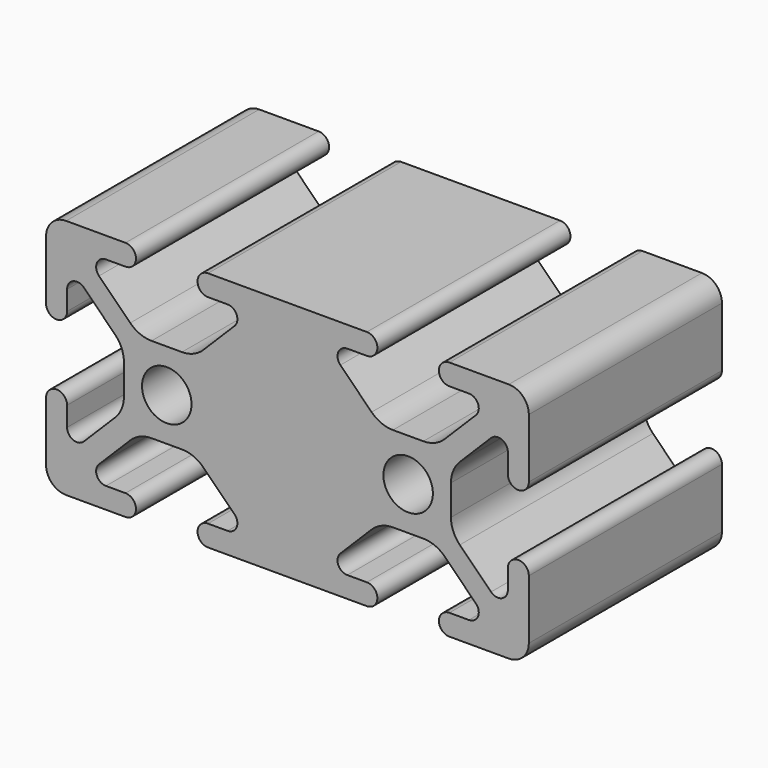
from build123d import *

# Parameters (mm, degrees)
F0_R     = 2.6035
F1_DEPTH = 25.4


with BuildPart() as f1:
    # F0 (on Front) → F1 (new body)
    with BuildSketch(Plane.XZ):
        with BuildLine():
            Line((-17.0434, 12.828983), (-23.2918, 12.828983))
            ThreePointArc((-23.2918, 12.828983), (-24.782523, 12.211505), (-25.4, 10.720783))
            Line((-25.4, 10.720783), (-25.4, 4.472383))
            ThreePointArc((-25.4, 4.472383), (-24.2951, 3.367483), (-23.1902, 4.472383))
            Line((-23.1902, 4.472383), (-23.1902, 6.528513))
            ThreePointArc((-23.1902, 6.528513), (-22.55203, 7.483601), (-21.425427, 7.259505))
            Line((-21.425427, 7.259505), (-18.138436, 3.972514))
            ThreePointArc((-18.138436, 3.972514), (-17.450182, 2.94247), (-17.2085, 1.72745))
            Line((-17.2085, 1.72745), (-17.2085, -1.469485))
            ThreePointArc((-17.2085, -1.469485), (-17.450182, -2.684505), (-18.138436, -3.714549))
            Line((-18.138436, -3.714549), (-21.425427, -7.00154))
            ThreePointArc((-21.425427, -7.00154), (-22.55203, -7.225636), (-23.1902, -6.270547))
            Line((-23.1902, -6.270547), (-23.1902, -4.214417))
            ThreePointArc((-23.1902, -4.214417), (-24.2951, -3.109517), (-25.4, -4.214417))
            Line((-25.4, -4.214417), (-25.4, -10.462817))
            ThreePointArc((-25.4, -10.462817), (-24.782523, -11.95354), (-23.2918, -12.571017))
            Line((-23.2918, -12.571017), (-17.0434, -12.571017))
            ThreePointArc((-17.0434, -12.571017), (-15.9385, -11.466117), (-17.0434, -10.361217))
            Line((-17.0434, -10.361217), (-19.09953, -10.361217))
            ThreePointArc((-19.09953, -10.361217), (-20.054618, -9.723048), (-19.830523, -8.596445))
            Line((-19.830523, -8.596445), (-16.543532, -5.309453))
            ThreePointArc((-16.543532, -5.309453), (-15.513488, -4.6212), (-14.298468, -4.379517))
            Line((-14.298468, -4.379517), (-11.101532, -4.379517))
            ThreePointArc((-11.101532, -4.379517), (-9.886512, -4.6212), (-8.856468, -5.309453))
            Line((-8.856468, -5.309453), (-5.569477, -8.596445))
            ThreePointArc((-5.569477, -8.596445), (-5.345382, -9.723048), (-6.30047, -10.361217))
            Line((-6.30047, -10.361217), (-8.3566, -10.361217))
            ThreePointArc((-8.3566, -10.361217), (-9.4615, -11.466117), (-8.3566, -12.571017))
            Line((-8.3566, -12.571017), (2.1082, -12.571017))
            Line((2.1082, -12.571017), (8.3566, -12.571017))
            ThreePointArc((8.3566, -12.571017), (9.4615, -11.466117), (8.3566, -10.361217))
            Line((8.3566, -10.361217), (6.30047, -10.361217))
            ThreePointArc((6.30047, -10.361217), (5.345382, -9.723048), (5.569477, -8.596445))
            Line((5.569477, -8.596445), (8.856468, -5.309453))
            ThreePointArc((8.856468, -5.309453), (9.886512, -4.6212), (11.101532, -4.379517))
            Line((11.101532, -4.379517), (14.298468, -4.379517))
            ThreePointArc((14.298468, -4.379517), (15.513488, -4.6212), (16.543532, -5.309453))
            Line((16.543532, -5.309453), (19.830523, -8.596445))
            ThreePointArc((19.830523, -8.596445), (20.054618, -9.723048), (19.09953, -10.361217))
            Line((19.09953, -10.361217), (17.0434, -10.361217))
            ThreePointArc((17.0434, -10.361217), (15.9385, -11.466117), (17.0434, -12.571017))
            Line((17.0434, -12.571017), (23.2918, -12.571017))
            ThreePointArc((23.2918, -12.571017), (24.782523, -11.95354), (25.4, -10.462817))
            Line((25.4, -10.462817), (25.4, -4.214417))
            ThreePointArc((25.4, -4.214417), (24.2951, -3.109517), (23.1902, -4.214417))
            Line((23.1902, -4.214417), (23.1902, -6.270547))
            ThreePointArc((23.1902, -6.270547), (22.55203, -7.225636), (21.425427, -7.00154))
            Line((21.425427, -7.00154), (18.138436, -3.714549))
            ThreePointArc((18.138436, -3.714549), (17.450182, -2.684505), (17.2085, -1.469485))
            Line((17.2085, -1.469485), (17.2085, 1.72745))
            ThreePointArc((17.2085, 1.72745), (17.450182, 2.94247), (18.138436, 3.972514))
            Line((18.138436, 3.972514), (21.425427, 7.259505))
            ThreePointArc((21.425427, 7.259505), (22.55203, 7.483601), (23.1902, 6.528513))
            Line((23.1902, 6.528513), (23.1902, 4.472383))
            ThreePointArc((23.1902, 4.472383), (24.2951, 3.367483), (25.4, 4.472383))
            Line((25.4, 4.472383), (25.4, 10.720783))
            ThreePointArc((25.4, 10.720783), (24.782523, 12.211505), (23.2918, 12.828983))
            Line((23.2918, 12.828983), (17.0434, 12.828983))
            ThreePointArc((17.0434, 12.828983), (15.9385, 11.724083), (17.0434, 10.619183))
            Line((17.0434, 10.619183), (19.09953, 10.619183))
            ThreePointArc((19.09953, 10.619183), (20.054618, 9.981013), (19.830523, 8.85441))
            Line((19.830523, 8.85441), (16.543532, 5.567419))
            ThreePointArc((16.543532, 5.567419), (15.513488, 4.879165), (14.298468, 4.637483))
            Line((14.298468, 4.637483), (11.101532, 4.637483))
            ThreePointArc((11.101532, 4.637483), (9.886512, 4.879165), (8.856468, 5.567419))
            Line((8.856468, 5.567419), (5.569477, 8.85441))
            ThreePointArc((5.569477, 8.85441), (5.345382, 9.981013), (6.30047, 10.619183))
            Line((6.30047, 10.619183), (8.3566, 10.619183))
            ThreePointArc((8.3566, 10.619183), (9.4615, 11.724083), (8.3566, 12.828983))
            Line((8.3566, 12.828983), (2.1082, 12.828983))
            Line((2.1082, 12.828983), (-8.3566, 12.828983))
            ThreePointArc((-8.3566, 12.828983), (-9.4615, 11.724083), (-8.3566, 10.619183))
            Line((-8.3566, 10.619183), (-6.30047, 10.619183))
            ThreePointArc((-6.30047, 10.619183), (-5.345382, 9.981013), (-5.569477, 8.85441))
            Line((-5.569477, 8.85441), (-8.856468, 5.567419))
            ThreePointArc((-8.856468, 5.567419), (-9.886512, 4.879165), (-11.101532, 4.637483))
            Line((-11.101532, 4.637483), (-14.298468, 4.637483))
            ThreePointArc((-14.298468, 4.637483), (-15.513488, 4.879165), (-16.543532, 5.567419))
            Line((-16.543532, 5.567419), (-19.830523, 8.85441))
            ThreePointArc((-19.830523, 8.85441), (-20.054618, 9.981013), (-19.09953, 10.619183))
            Line((-19.09953, 10.619183), (-17.0434, 10.619183))
            ThreePointArc((-17.0434, 10.619183), (-15.9385, 11.724083), (-17.0434, 12.828983))
        make_face()
        with Locations((-12.7, 0.128983)):
            Circle(F0_R, mode=Mode.SUBTRACT)
        with Locations((12.7, 0.128983)):
            Circle(F0_R, mode=Mode.SUBTRACT)
    extrude(amount=F1_DEPTH)


solid = f1.part
